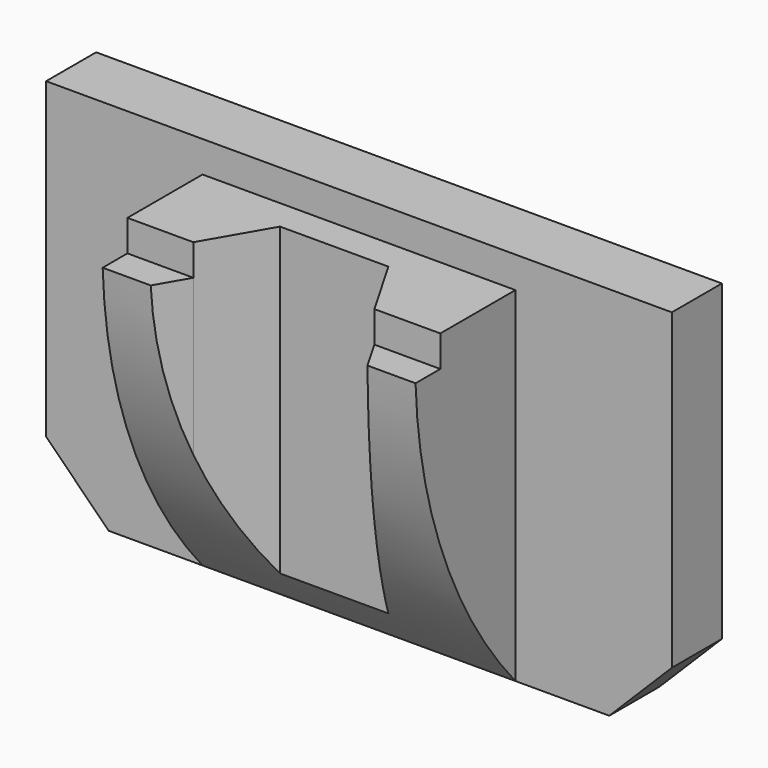
from build123d import *

# Parameters (mm, degrees)
F1_DEPTH = 10
F2_DEPTH = 30
F4_DEPTH = 75.001
F6_DEPTH = 55.001


with BuildPart() as f1:
    # F0 (on Front) → F1 (new body)
    with BuildSketch(Plane.XZ):
        Polygon((50, 37.368118), (0, 37.368118), (-50, 37.368118), (-50, -12.631882), (-40, -22.631882), (-25, -22.631882), (-25, 32.368118), (25, 32.368118), (25, -22.631882), (40, -22.631882), (50, -12.631882), align=None)
    extrude(amount=F1_DEPTH)

    # F0 (on Front) → F2 (join)
    with BuildSketch(Plane.XZ):
        Polygon((-25, 32.368118), (-25, -22.631882), (0, -22.631882), (25, -22.631882), (25, 32.368118), align=None)
    extrude(amount=F2_DEPTH)

    # F3 (on face) → F4 (cut, through all)
    with BuildSketch(Plane.YZ.offset(25)):
        Polygon((-25, 32.368118), (-30, 32.368118), (-30, 27.368118), (-29.947912, 27.368118), (-25, 27.368118), align=None)
        with BuildLine():
            Line((-29.947912, 27.368118), (-30, 27.368118))
            Line((-30, 27.368118), (-30, -22.631882))
            Line((-30, -22.631882), (-10, -22.631882))
            ThreePointArc((-10, -22.631882), (-24.305881, 0.639861), (-29.947912, 27.368118))
        make_face()
    extrude(amount=-F4_DEPTH, mode=Mode.SUBTRACT)

    # F5 (on face) → F6 (cut, through all)
    with BuildSketch(Plane.XY.offset(32.368118)):
        Polygon((-14.46383, -25), (14.46383, -25), (8.660254, -14.947912), (-8.660254, -14.947912), align=None)
        Polygon((17.320508, -29.947912), (14.46383, -25), (-14.46383, -25), (-17.320508, -29.947912), (0, -29.947912), align=None)
    extrude(amount=-F6_DEPTH, mode=Mode.SUBTRACT)


solid = f1.part
